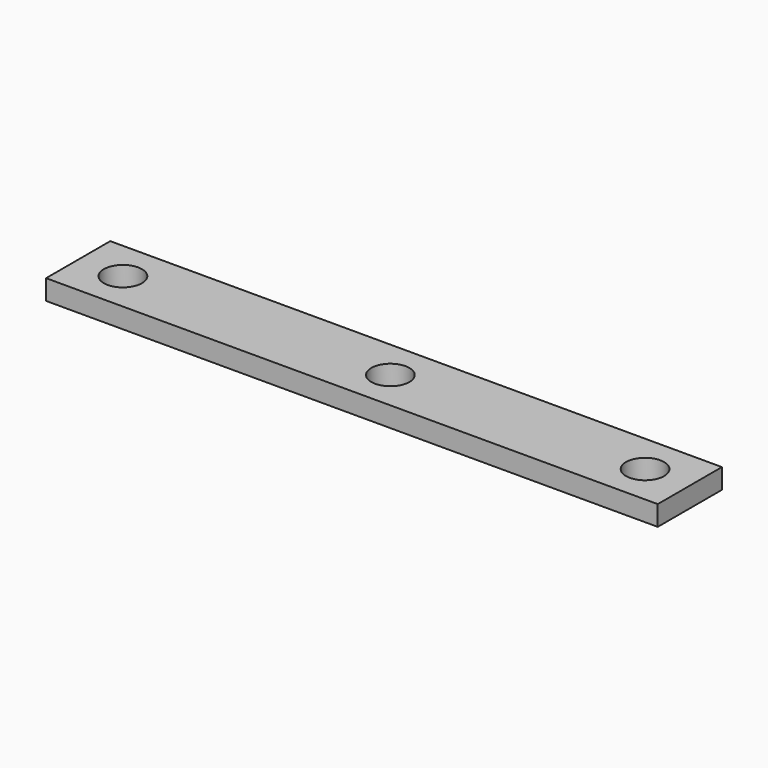
from build123d import *

# Parameters (mm, degrees)
F0_R     = 9.5
F1_DEPTH = 10


with BuildPart() as f1:
    # F0 (on Top) → F1 (new body)
    with BuildSketch(Plane.XY):
        Polygon((-155.675, -20), (0, -20), (149.325, -20), (149.325, 20), (0, 20), (-155.675, 20), align=None)
        with Locations((-133.35, 0)):
            Circle(F0_R, mode=Mode.SUBTRACT)
        Circle(F0_R, mode=Mode.SUBTRACT)
        with Locations((127, 0)):
            Circle(F0_R, mode=Mode.SUBTRACT)
    extrude(amount=-F1_DEPTH)


solid = f1.part
